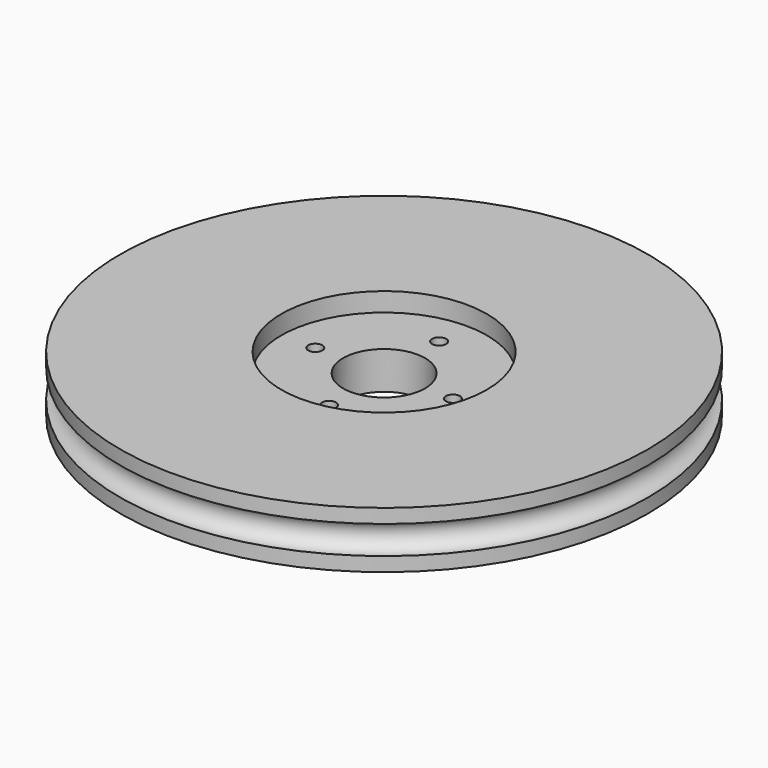
from build123d import *

# Parameters (mm, degrees)
CYLINDER003_R     = 0.75
CYLINDER003_DEPTH = 10
ARRAY_COUNT       = 4
CYLINDER002_R     = 4.35
CYLINDER002_DEPTH = 10
CYLINDER001_R     = 10.9
CYLINDER001_DEPTH = 10
TORUS_R           = 1.5
CYLINDER_R        = 28
CYLINDER_DEPTH    = 6


with BuildPart() as array:
    # Cylinder003 → Cylinder003 (new body)
    with BuildSketch(Plane(origin=(7.3, 0, -5), x_dir=(1, 0, 0), z_dir=(0, 0, 1))):
        Circle(CYLINDER003_R)
    extrude(amount=CYLINDER003_DEPTH)

    # Array: Array ×4 about axis
    array_axis = Axis((0, 0, 0), (0, 0, 1))


with BuildPart() as array_1:
    add(array.part)
    for i in range(1, ARRAY_COUNT):
        add(array.part.rotate(array_axis, i * 360 / ARRAY_COUNT))


with BuildPart() as obj1:
    # Cylinder002 → Cylinder002 (new body)
    with BuildSketch(Plane.XY.offset(-4)):
        Circle(CYLINDER002_R)
    extrude(amount=CYLINDER002_DEPTH)


with BuildPart() as corona_servo:
    # Cylinder001 → Cylinder001 (new body)
    with BuildSketch(Plane.XY.offset(1)):
        Circle(CYLINDER001_R)
    extrude(amount=CYLINDER001_DEPTH)


with BuildPart() as obj2:
    # Torus → Torus (revolve)
    with BuildSketch(Plane.XZ):
        with Locations((28, 0)):
            Circle(TORUS_R)
    revolve(axis=Axis((0, 0, 0), (0, 0, 1)))


with BuildPart() as obj3:
    # Cylinder → Cylinder (new body)
    with BuildSketch(Plane.XY.offset(-3)):
        Circle(CYLINDER_R)
    extrude(amount=CYLINDER_DEPTH)

    # Cut: cut obj2
    add(obj2.part, mode=Mode.SUBTRACT)

    # Cut001: cut corona_servo
    add(corona_servo.part, mode=Mode.SUBTRACT)

    # Cut002: cut obj1
    add(obj1.part, mode=Mode.SUBTRACT)

    # Cut003: cut Array
    add(array_1.part, mode=Mode.SUBTRACT)


solid = obj3.part
